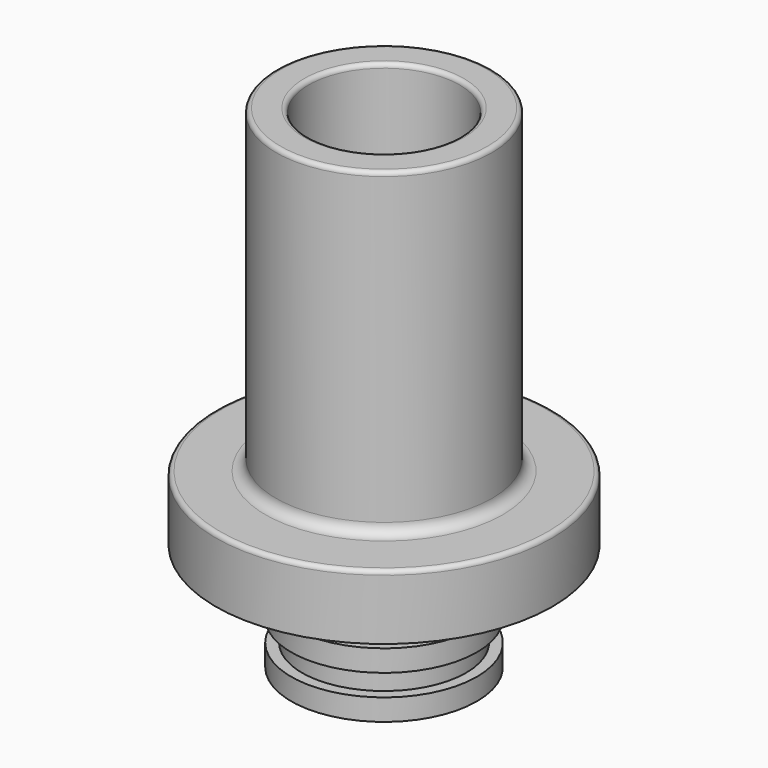
from build123d import *


with BuildPart() as f1:
    # F0 (on Front) → F1 (revolve)
    with BuildSketch(Plane.XZ):
        with BuildLine():
            Line((4.8, 22.8), (3.7, 22.8))
            ThreePointArc((3.7, 22.8), (3.558579, 22.741421), (3.5, 22.6))
            Line((3.5, 22.6), (3.5, 7.2))
            Line((3.5, 7.2), (2, 5.7))
            Line((2, 5.7), (2, 0))
            Line((2, 0), (4.3, 0))
            Line((4.3, 0), (4.3, 1))
            Line((4.3, 1), (3.8, 1))
            Line((3.8, 1), (3.8, 2))
            Line((3.8, 2), (4.3, 2))
            Line((4.3, 2), (4.3, 3))
            Line((4.3, 3), (3.8, 3))
            Line((3.8, 3), (3.8, 4))
            Line((3.8, 4), (4.3, 4))
            Line((4.3, 4), (4.3, 5))
            Line((4.3, 5), (7.8, 5))
            Line((7.8, 5), (7.8, 7.8))
            ThreePointArc((7.8, 7.8), (7.741421, 7.941421), (7.6, 8))
            Line((7.6, 8), (5.5, 8))
            ThreePointArc((5.5, 8), (5.146447, 8.146447), (5, 8.5))
            Line((5, 8.5), (5, 22.6))
            ThreePointArc((5, 22.6), (4.941421, 22.741421), (4.8, 22.8))
        make_face()
    revolve(axis=Axis((0, 0, 11.4), (0, 0, 1)))


solid = f1.part
